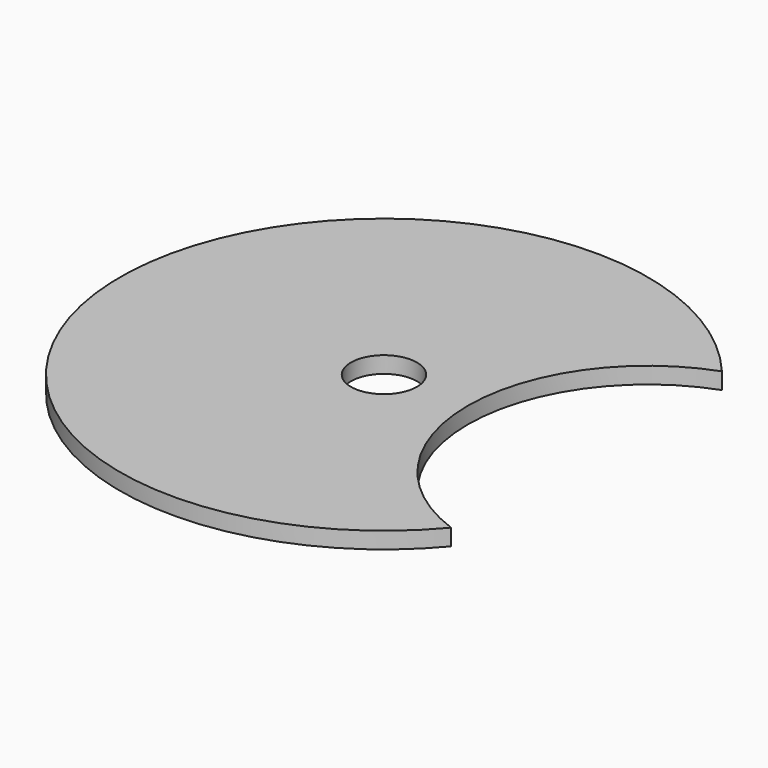
from build123d import *

# Parameters (mm, degrees)
F0_R     = 6.35
F1_DEPTH = 3.175


with BuildPart() as f1:
    # F0 (on Top) → F1 (new body)
    with BuildSketch(Plane.XY):
        with BuildLine():
            ThreePointArc((38.985702, -32.569235), (16.154182, 0), (38.985702, 32.569235))
            ThreePointArc((38.985702, 32.569235), (-50.8, 0), (38.985702, -32.569235))
        make_face()
        Circle(F0_R, mode=Mode.SUBTRACT)
    extrude(amount=F1_DEPTH)


solid = f1.part
